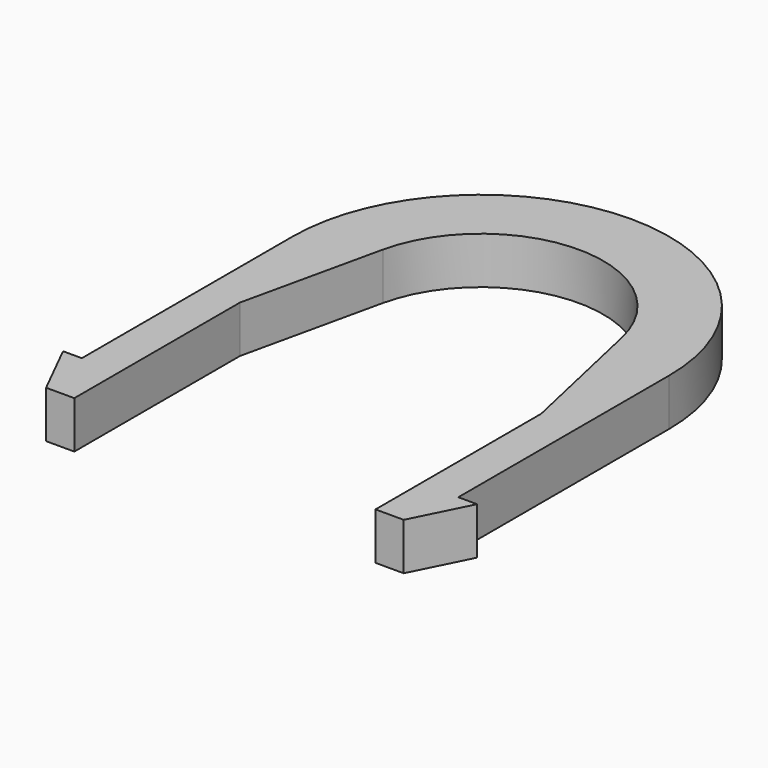
from build123d import *

# Parameters (mm, degrees)
F1_DEPTH = 1.25


with BuildPart() as f1:
    # F0 (on Top) → F1 (new body)
    with BuildSketch(Plane.XY):
        with BuildLine():
            Line((5, -2), (5, 5))
            ThreePointArc((5, 5), (0, 10), (-5, 5))
            Line((-5, 5), (-5, -2))
            Line((-5, -2), (-5.5, -2))
            Line((-5.5, -2), (-4.75, -3.5))
            Line((-4.75, -3.5), (-4, -3.5))
            Line((-4, -3.5), (-4, 2))
            Line((-4, 2), (-3.171872, 5.708329))
            ThreePointArc((-3.171872, 5.708329), (0, 8.25), (3.171872, 5.708329))
            Line((3.171872, 5.708329), (4, 2))
            Line((4, 2), (4, -3.5))
            Line((4, -3.5), (4.75, -3.5))
            Line((4.75, -3.5), (5.5, -2))
            Line((5.5, -2), (5, -2))
        make_face()
    extrude(amount=F1_DEPTH)


solid = f1.part
